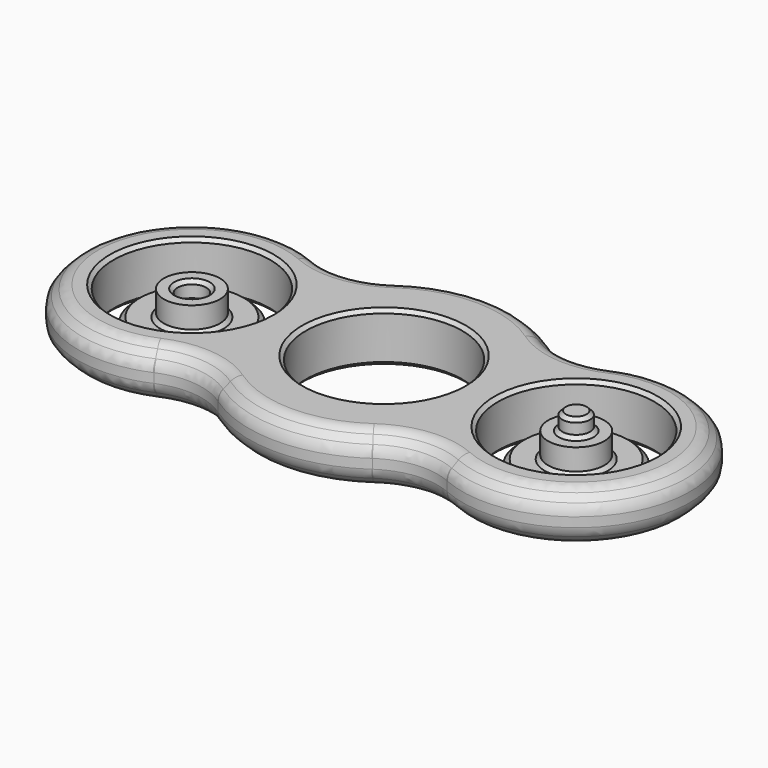
from build123d import *

# Parameters (mm, degrees)
F0_R       = 11
F1_DEPTH   = 7
F2_SIZE    = 2
F3_SIZE    = 0.5
F4_R       = 2
F5_R       = 8
F6_DEPTH   = 3
F7_SIZE    = 0.7
F7_2_SIZE  = 0.7
F8_R       = 3.95
F9_DEPTH   = 3.5
F10_R      = 3.95
F11_DEPTH  = 3.5
F13_R      = 2
F14_DEPTH  = 2.7
F12_R      = 1.95
F15_DEPTH  = 2.5
F16_SIZE   = 0.5
F16_2_SIZE = 0.5


with BuildPart() as f1:
    # F0 (on Top) → F1 (new body)
    with BuildSketch(Plane.XY):
        with BuildLine():
            ThreePointArc((-20.5726495726, -14.65227513), (-15.5861003123, -13.8570501948), (-10.846743295, -15.5996205047))
            ThreePointArc((-10.846743295, -15.5996205047), (0, -19), (10.846743295, -15.5996205047))
            ThreePointArc((10.846743295, -15.5996205047), (15.5861003123, -13.8570501948), (20.5726495726, -14.65227513))
            ThreePointArc((20.5726495726, -14.65227513), (43, 0), (20.5726495726, 14.65227513))
            ThreePointArc((20.5726495726, 14.65227513), (15.5861003123, 13.8570501948), (10.846743295, 15.5996205047))
            ThreePointArc((10.846743295, 15.5996205047), (0, 19), (-10.846743295, 15.5996205047))
            ThreePointArc((-10.846743295, 15.5996205047), (-15.5861003123, 13.8570501948), (-20.5726495726, 14.65227513))
            ThreePointArc((-20.5726495726, 14.65227513), (-43, 0), (-20.5726495726, -14.65227513))
        make_face()
        with Locations((-27, 0)):
            Circle(F0_R, mode=Mode.SUBTRACT)
        Circle(F0_R, mode=Mode.SUBTRACT)
        with Locations((27, 0)):
            Circle(F0_R, mode=Mode.SUBTRACT)
    extrude(amount=F1_DEPTH)

    # F2
    f2_edges = [f1.edges().sort_by_distance(p)[0] for p in [
        (-43, 0, 7),
        (-43, 0, 0),
    ]]
    chamfer(f2_edges, length=F2_SIZE)

    # F3
    f3_edges = [f1.edges().sort_by_distance(p)[0] for p in [
        (-38, 0, 7),
        (-38, 0, 0),
        (-11, 0, 7),
        (-11, 0, 0),
        (16, 0, 7),
        (16, 0, 0),
    ]]
    chamfer(f3_edges, length=F3_SIZE)

    # F4
    f4_edges = [f1.edges().sort_by_distance(p)[0] for p in [
        (-43, 0, 5),
        (-43, 0, 2),
        (-41, 0, 7),
        (-41, 0, 0),
    ]]
    fillet(f4_edges, radius=F4_R)


with BuildPart() as f6:
    # F5 (on Top) → F6 (new body)
    with BuildSketch(Plane.XY):
        with Locations((-27, 0)):
            Circle(F5_R)
    extrude(amount=F6_DEPTH)

    # F7
    f7_edges = [f6.edges().sort_by_distance(p)[0] for p in [
        (-35, 0, 0),
        (-35, 0, 3),
    ]]
    chamfer(f7_edges, length=F7_SIZE)

    # F10 (on face) → F11 (join)
    with BuildSketch(Plane.XY.offset(3)):
        with Locations((-27, 0)):
            Circle(F10_R)
    extrude(amount=F11_DEPTH)

    # F13 (on face) → F14 (cut)
    with BuildSketch(Plane.XY.offset(6.5)):
        with Locations((-27, 0)):
            Circle(F13_R)
    extrude(amount=-F14_DEPTH, mode=Mode.SUBTRACT)

    # F16#2
    f16_2_edges = [f6.edges().sort_by_distance(p)[0] for p in [
        (-29, 0, 6.5),
        (-29, 0, 3.8),
        (-30.95, 0, 3),
    ]]
    chamfer(f16_2_edges, length=F16_2_SIZE)


with BuildPart() as f6b:
    # F5 (on Top) → F6, piece 2 (new body)
    with BuildSketch(Plane.XY):
        with Locations((27, 0)):
            Circle(F5_R)
    extrude(amount=F6_DEPTH)

    # F7#2
    f7_2_edges = [f6b.edges().sort_by_distance(p)[0] for p in [
        (19, 0, 0),
        (19, 0, 3),
    ]]
    chamfer(f7_2_edges, length=F7_2_SIZE)

    # F8 (on face) → F9 (join)
    with BuildSketch(Plane.XY.offset(3)):
        with Locations((27, 0)):
            Circle(F8_R)
    extrude(amount=F9_DEPTH)

    # F12 (on face) → F15 (join)
    with BuildSketch(Plane.XY.offset(6.5)):
        with Locations((27, 0)):
            Circle(F12_R)
    extrude(amount=F15_DEPTH)

    # F16
    f16_edges = [f6b.edges().sort_by_distance(p)[0] for p in [
        (25.05, 0, 9),
        (25.05, 0, 6.5),
        (23.05, 0, 3),
    ]]
    chamfer(f16_edges, length=F16_SIZE)


solid = Compound([f1.part, f6.part, f6b.part])
